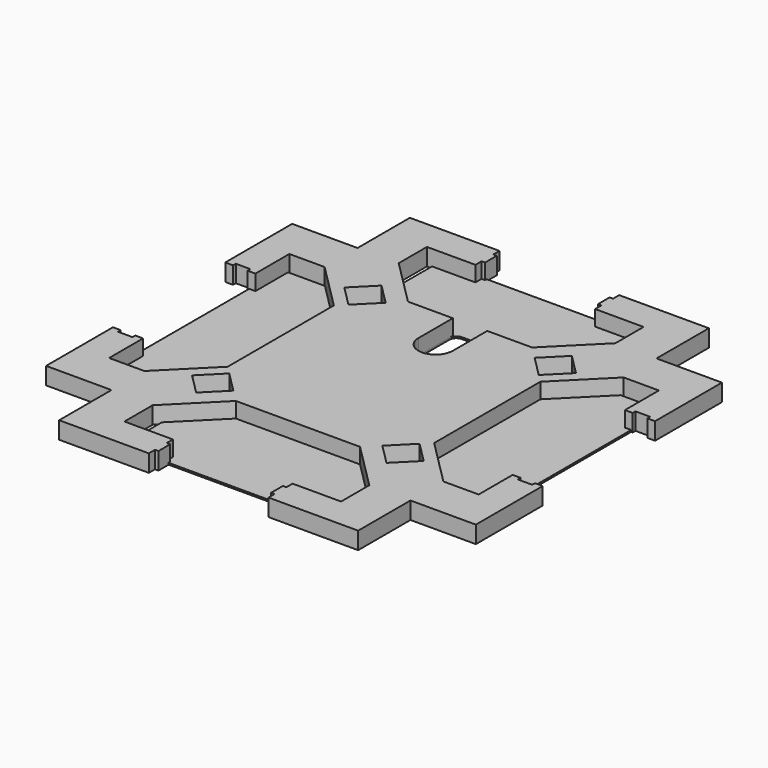
from build123d import *

# Parameters (mm, degrees)
PAD_DEPTH    = 10
SKETCH001_R  = 3
PAD001_DEPTH = 1


with BuildPart() as body:
    # Sketch → Pad (new body)
    with BuildSketch(Plane.XY):
        with BuildLine():
            Line((-36.079185, -62.5), (36.079185, -62.5))
            Line((36.079185, -62.5), (62.949242, -89.370058))
            Line((62.949242, -89.370058), (62.949242, -109.870058))
            Line((62.949242, -109.870058), (59.949242, -109.870058))
            Line((59.949242, -109.870058), (48.769242, -109.870058))
            Line((48.769242, -109.870058), (34.769242, -109.870058))
            Line((34.769242, -109.870058), (34.769242, -114.370058))
            Line((34.769242, -114.370058), (32.769242, -114.370058))
            Line((32.769242, -114.370058), (32.769242, -122.870058))
            Line((32.769242, -122.870058), (34.769242, -122.870058))
            Line((34.769242, -122.870058), (34.769242, -127.370058))
            Line((34.769242, -127.370058), (48.769242, -127.370058))
            Line((48.769242, -127.370058), (59.949242, -127.370058))
            Line((59.949242, -127.370058), (62.949242, -127.370058))
            Line((62.949242, -127.370058), (86.870058, -127.370058))
            Line((86.870058, -127.370058), (86.870058, -89.370058))
            Line((86.870058, -89.370058), (124.870058, -89.370058))
            Line((124.870058, -89.370058), (124.870058, -65.449242))
            Line((124.870058, -62.449242), (124.870058, -65.449242))
            Line((124.870058, -54.799242), (124.870058, -62.449242))
            Line((124.870058, -54.799242), (124.870058, -40.799242))
            Line((120.370058, -40.799242), (124.870058, -40.799242))
            Line((120.370058, -42.799242), (120.370058, -40.799242))
            Line((111.870058, -42.799242), (120.370058, -42.799242))
            Line((111.870058, -40.799242), (111.870058, -42.799242))
            Line((107.370058, -40.799242), (111.870058, -40.799242))
            Line((107.370058, -40.799242), (107.370058, -54.799242))
            Line((107.370058, -62.449242), (107.370058, -54.799242))
            Line((107.370058, -65.449242), (107.370058, -62.449242))
            Line((86.870058, -65.449242), (107.370058, -65.449242))
            Line((60, -38.579185), (86.870058, -65.449242))
            Line((60, 38.579185), (60, -38.579185))
            Line((60, 38.579185), (86.870058, 65.449242))
            Line((86.870058, 65.449242), (107.370058, 65.449242))
            Line((107.370058, 65.449242), (107.370058, 62.449242))
            Line((107.370058, 62.449242), (107.370058, 54.799242))
            Line((107.370058, 54.799242), (107.370058, 40.799242))
            Line((107.370058, 40.799242), (111.870058, 40.799242))
            Line((111.870058, 40.799242), (111.870058, 42.799242))
            Line((111.870058, 42.799242), (120.370058, 42.799242))
            Line((120.370058, 42.799242), (120.370058, 40.799242))
            Line((120.370058, 40.799242), (124.870058, 40.799242))
            Line((124.870058, 40.799242), (124.870058, 54.799242))
            Line((124.870058, 54.799242), (124.870058, 62.449242))
            Line((124.870058, 62.449242), (124.870058, 65.449242))
            Line((124.870058, 65.449242), (124.870058, 89.370058))
            Line((124.870058, 89.370058), (86.870058, 89.370058))
            Line((86.870058, 89.370058), (86.870058, 127.370058))
            Line((86.870058, 127.370058), (62.949242, 127.370058))
            Line((62.949242, 127.370058), (59.949242, 127.370058))
            Line((59.949242, 127.370058), (48.769242, 127.370058))
            Line((48.769242, 127.370058), (34.769242, 127.370058))
            Line((34.769242, 127.370058), (34.769242, 122.870058))
            Line((34.769242, 122.870058), (32.769242, 122.870058))
            Line((32.769242, 122.870058), (32.769242, 114.370058))
            Line((32.769242, 114.370058), (34.769242, 114.370058))
            Line((34.769242, 114.370058), (34.769242, 109.870058))
            Line((34.769242, 109.870058), (48.769242, 109.870058))
            Line((48.769242, 109.870058), (59.949242, 109.870058))
            Line((59.949242, 109.870058), (62.949242, 109.870058))
            Line((62.949242, 109.870058), (62.949242, 89.370058))
            Line((36.079185, 62.5), (62.949242, 89.370058))
            Line((36.079185, 62.5), (10, 62.5))
            Line((10, 62.5), (10, 37.5))
            ThreePointArc((-10, 37.5), (0, 27.5), (10, 37.5))
            Line((-10, 62.5), (-10, 37.5))
            Line((-36.079185, 62.5), (-10, 62.5))
            Line((-62.949242, 89.370058), (-36.079185, 62.5))
            Line((-62.949242, 89.370058), (-62.949242, 109.870058))
            Line((-62.949242, 109.870058), (-59.949242, 109.870058))
            Line((-48.769242, 109.870058), (-59.949242, 109.870058))
            Line((-34.769242, 109.870058), (-48.769242, 109.870058))
            Line((-34.769242, 114.370058), (-34.769242, 109.870058))
            Line((-32.769242, 114.370058), (-34.769242, 114.370058))
            Line((-32.769242, 122.870058), (-32.769242, 114.370058))
            Line((-34.769242, 122.870058), (-32.769242, 122.870058))
            Line((-34.769242, 127.370058), (-34.769242, 122.870058))
            Line((-48.769242, 127.370058), (-34.769242, 127.370058))
            Line((-59.949242, 127.370058), (-48.769242, 127.370058))
            Line((-59.949242, 127.370058), (-62.949242, 127.370058))
            Line((-86.870058, 127.370058), (-62.949242, 127.370058))
            Line((-86.870058, 89.370058), (-86.870058, 127.370058))
            Line((-124.870058, 89.370058), (-86.870058, 89.370058))
            Line((-124.870058, 65.449242), (-124.870058, 89.370058))
            Line((-124.870058, 65.449242), (-124.870058, 62.449242))
            Line((-124.870058, 62.449242), (-124.870058, 54.799242))
            Line((-124.870058, 54.799242), (-124.870058, 40.799242))
            Line((-124.870058, 40.799242), (-120.370058, 40.799242))
            Line((-120.370058, 40.799242), (-120.370058, 42.799242))
            Line((-120.370058, 42.799242), (-111.870058, 42.799242))
            Line((-111.870058, 42.799242), (-111.870058, 40.799242))
            Line((-111.870058, 40.799242), (-107.370058, 40.799242))
            Line((-107.370058, 40.799242), (-107.370058, 54.799242))
            Line((-107.370058, 54.799242), (-107.370058, 62.449242))
            Line((-107.370058, 62.449242), (-107.370058, 65.449242))
            Line((-107.370058, 65.449242), (-86.870058, 65.449242))
            Line((-60, 38.579185), (-86.870058, 65.449242))
            Line((-60, -38.579185), (-60, 38.579185))
            Line((-60, -38.579185), (-86.870058, -65.449242))
            Line((-107.370058, -65.449242), (-86.870058, -65.449242))
            Line((-107.370058, -62.449242), (-107.370058, -65.449242))
            Line((-107.370058, -54.799242), (-107.370058, -62.449242))
            Line((-107.370058, -40.799242), (-107.370058, -54.799242))
            Line((-111.870058, -40.799242), (-107.370058, -40.799242))
            Line((-111.870058, -42.799242), (-111.870058, -40.799242))
            Line((-120.370058, -42.799242), (-111.870058, -42.799242))
            Line((-120.370058, -40.799242), (-120.370058, -42.799242))
            Line((-124.870058, -40.799242), (-120.370058, -40.799242))
            Line((-124.870058, -54.799242), (-124.870058, -40.799242))
            Line((-124.870058, -62.449242), (-124.870058, -54.799242))
            Line((-124.870058, -65.449242), (-124.870058, -62.449242))
            Line((-124.870058, -65.449242), (-124.870058, -89.370058))
            Line((-124.870058, -89.370058), (-86.870058, -89.370058))
            Line((-86.870058, -89.370058), (-86.870058, -127.370058))
            Line((-86.870058, -127.370058), (-62.949242, -127.370058))
            Line((-62.949242, -127.370058), (-59.949242, -127.370058))
            Line((-59.949242, -127.370058), (-48.769242, -127.370058))
            Line((-34.769242, -127.370058), (-48.769242, -127.370058))
            Line((-34.769242, -122.870058), (-34.769242, -127.370058))
            Line((-32.769242, -122.870058), (-34.769242, -122.870058))
            Line((-32.769242, -114.370058), (-32.769242, -122.870058))
            Line((-34.769242, -114.370058), (-32.769242, -114.370058))
            Line((-34.769242, -109.870058), (-34.769242, -114.370058))
            Line((-48.769242, -109.870058), (-34.769242, -109.870058))
            Line((-48.769242, -109.870058), (-59.949242, -109.870058))
            Line((-59.949242, -109.870058), (-62.949242, -109.870058))
            Line((-62.949242, -109.870058), (-62.949242, -89.370058))
            Line((-36.079185, -62.5), (-62.949242, -89.370058))
        make_face()
        Polygon((-55.3, 43.279185), (-67.320815, 55.3), (-55.3, 67.320815), (-43.279185, 55.3), align=None, mode=Mode.SUBTRACT)
        Polygon((43.279185, 55.3), (55.3, 67.320815), (67.320815, 55.3), (55.3, 43.279185), align=None, mode=Mode.SUBTRACT)
        Polygon((43.279185, -55.3), (55.3, -67.320815), (67.320815, -55.3), (55.3, -43.279185), align=None, mode=Mode.SUBTRACT)
        Polygon((-43.279185, -55.3), (-55.3, -67.320815), (-67.320815, -55.3), (-55.3, -43.279185), align=None, mode=Mode.SUBTRACT)
    extrude(amount=PAD_DEPTH)


with BuildPart() as body001:
    # Sketch001 → Pad001 (new body)
    with BuildSketch(Plane.XY):
        Polygon((-30, 31), (-30, 44), (-60, 77.5), (-60, 115.5), (60, 115.5), (60, 77.5), (30, 44), (30, 31), (43, 31), (73, 64.5), (111, 64.5), (111, -64.5), (73, -64.5), (43, -31), (30, -31), (30, -44), (60, -77.5), (60, -115.5), (-60, -115.5), (-60, -77.5), (-30, -44), (-30, -31), (-43, -31), (-73, -64.5), (-111, -64.5), (-111, 64.5), (-73, 64.5), (-43, 31), align=None)
        with Locations((-20, -37)):
            Circle(SKETCH001_R, mode=Mode.SUBTRACT)
        with BuildLine():
            Line((-10, 44), (-10, 31))
            Line((-10, 31), (10, 31))
            Line((10, 31), (10, 44))
            Line((10, 44), (10, 60))
            ThreePointArc((10, 60), (8.828427, 62.828427), (6, 64))
            Line((6, 64), (-6, 64))
            ThreePointArc((-6, 64), (-8.828427, 62.828427), (-10, 60))
            Line((-10, 60), (-10, 44))
        make_face(mode=Mode.SUBTRACT)
        Polygon((-5, -2.5), (-5, 2.5), (-2, 12.5), (-30, 10), (-30, 20), (30, 20), (30, 10), (2, 12.5), (5, 2.5), (5, -2.5), (2, -12.5), (30, -10), (30, -20), (-30, -20), (-30, -10), (-2, -12.5), align=None, mode=Mode.SUBTRACT)
    extrude(amount=PAD001_DEPTH)


solid = Compound([body.part, body001.part])
